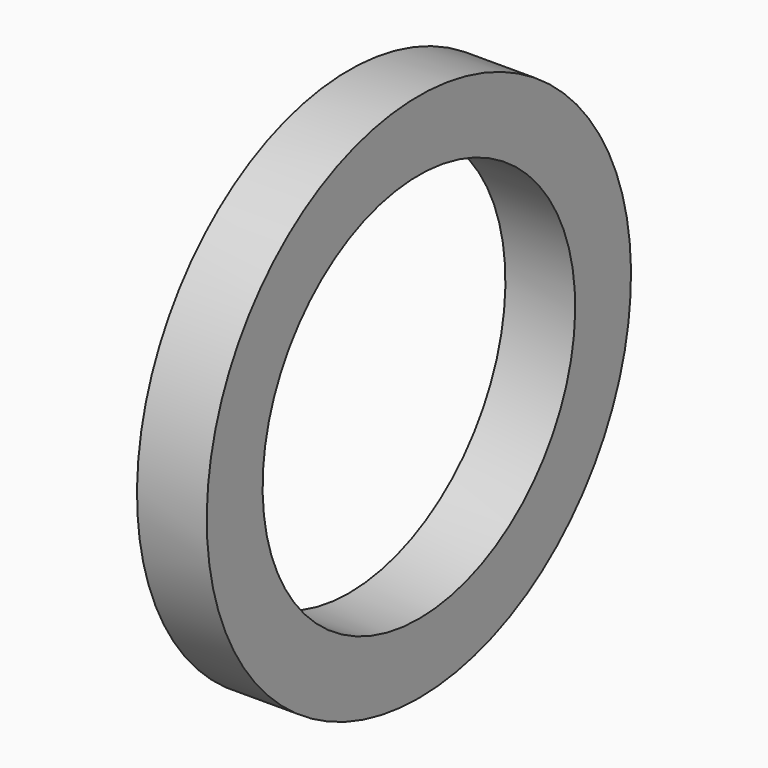
from build123d import *

# Parameters (mm, degrees)
CYLINDER004_R           = 2.8
CYLINDER004_DEPTH       = 1
CYLINDER004_PITCH_ANGLE = 90
CYLINDER005_R           = 3.8
CYLINDER005_DEPTH       = 1
CYLINDER005_PITCH_ANGLE = 90


with BuildPart() as audio_jack004:
    # Cylinder004 → Cylinder004 (new body)
    with BuildSketch(Plane.XY):
        Circle(CYLINDER004_R)
    extrude(amount=CYLINDER004_DEPTH)


with BuildPart() as audio_jack004_1:
    # Cylinder004 pitch: moved
    add(audio_jack004.part.rotate(Axis((0, 0, 0), (0, 1, 0)), CYLINDER004_PITCH_ANGLE))


with BuildPart() as audio_jack004_2:
    # Cylinder004 placement: moved
    add(audio_jack004_1.part.moved(Location((33, -5.5, 4))))


with BuildPart() as cut001:
    # Cylinder005 → Cylinder005 (new body)
    with BuildSketch(Plane.XY):
        Circle(CYLINDER005_R)
    extrude(amount=CYLINDER005_DEPTH)


with BuildPart() as cut001_1:
    # Cylinder005 pitch: moved
    add(cut001.part.rotate(Axis((0, 0, 0), (0, 1, 0)), CYLINDER005_PITCH_ANGLE))


with BuildPart() as cut001_2:
    # Cylinder005 placement: moved
    add(cut001_1.part.moved(Location((33, -5.5, 4))))

    # Cut001: cut Audio_jack004
    add(audio_jack004_2.part, mode=Mode.SUBTRACT)


with BuildPart() as cut001_3:
    # Cut001 placement: moved
    add(cut001_2.part.moved(Location((30, -9.5, 1))))


solid = cut001_3.part
